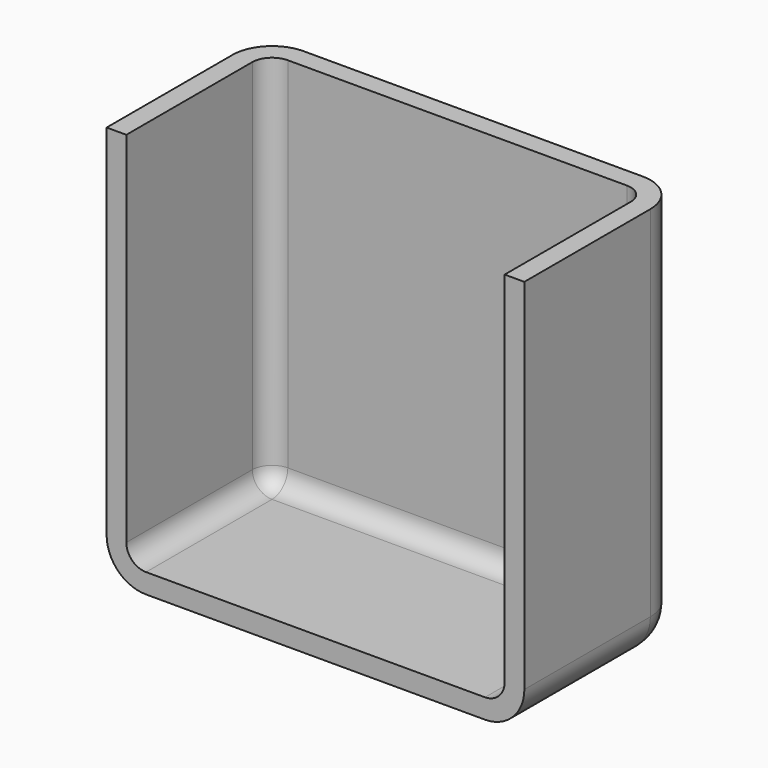
from build123d import *

# Parameters (mm, degrees)
F0_W     = 53.881463
F0_H     = 51.368588
F1_DEPTH = 12.7
F2_R     = 5.08
F3_T     = -2.54


with BuildPart() as f1:
    # F0 (on Front) → F1 (new body, symmetric)
    with BuildSketch(Plane.XZ):
        with Locations((-2.059168, -1.109223)):
            Rectangle(F0_W, F0_H)
    extrude(amount=F1_DEPTH, both=True)

    # F2
    f2_edges = [f1.edges().sort_by_distance(p)[0] for p in [
        (24.881564, 0, -26.793517),
        (-28.999899, 0, -26.793517),
        (-28.999899, 12.7, -1.109223),
        (-2.059167, 12.7, -26.793517),
        (24.881564, 12.7, -1.109223),
    ]]
    fillet(f2_edges, radius=F2_R)

    # F3
    f3_openings = [f1.faces().sort_by_distance(p)[0] for p in [
        (-2.059167, -0.094363, 24.575071),
        (-2.059167, -12.7, -1.010586),
    ]]
    offset(amount=F3_T, openings=f3_openings)


solid = f1.part
